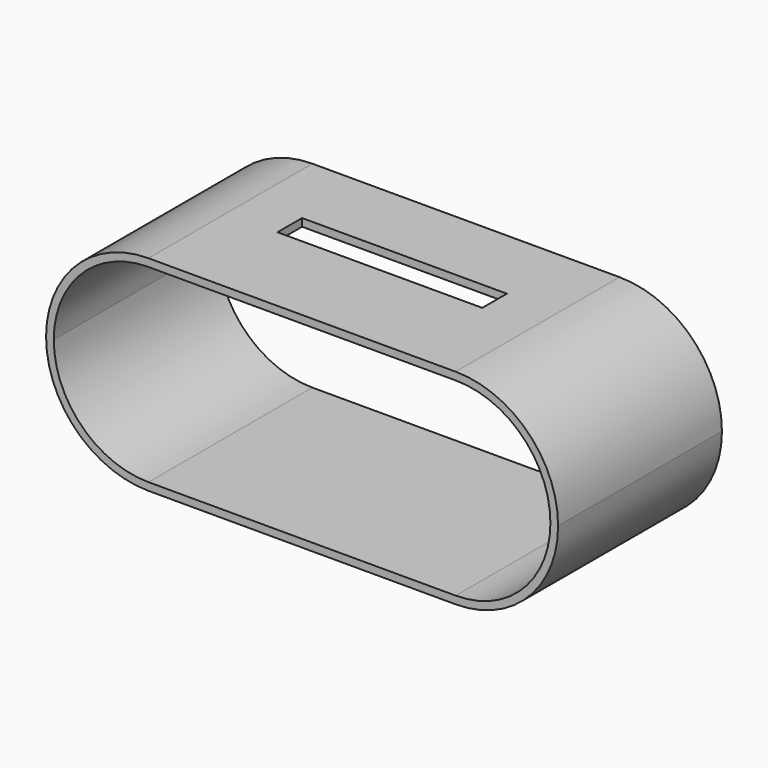
from build123d import *

# Parameters (mm, degrees)
F1_DEPTH = 80
F2_W     = 80
F2_H     = 12
F3_DEPTH = 25


with BuildPart() as f1:
    # F0 (on Front) → F1 (new body)
    with BuildSketch(Plane.XZ):
        with BuildLine():
            Line((60, 40), (-60, 40))
            ThreePointArc((-60, 40), (-88.284271, 28.284271), (-100, 0))
            ThreePointArc((-100, 0), (-88.284271, -28.284271), (-60, -40))
            Line((-60, -40), (60, -40))
            ThreePointArc((60, -40), (88.284271, -28.284271), (100, 0))
            ThreePointArc((100, 0), (88.284271, 28.284271), (60, 40))
        make_face()
        with BuildLine():
            ThreePointArc((-97, 0), (-86.162951, 26.162951), (-60, 37))
            Line((-60, 37), (60, 37))
            ThreePointArc((60, 37), (86.162951, 26.162951), (97, 0))
            ThreePointArc((97, 0), (86.162951, -26.162951), (60, -37))
            Line((60, -37), (-60, -37))
            ThreePointArc((-60, -37), (-86.162951, -26.162951), (-97, 0))
        make_face(mode=Mode.SUBTRACT)
    extrude(amount=F1_DEPTH)

    # F2 (on face) → F3 (cut)
    with BuildSketch(Plane.XY.offset(40)):
        with Locations((0, -36)):
            Rectangle(F2_W, F2_H)
    extrude(amount=-F3_DEPTH, mode=Mode.SUBTRACT)


solid = f1.part
